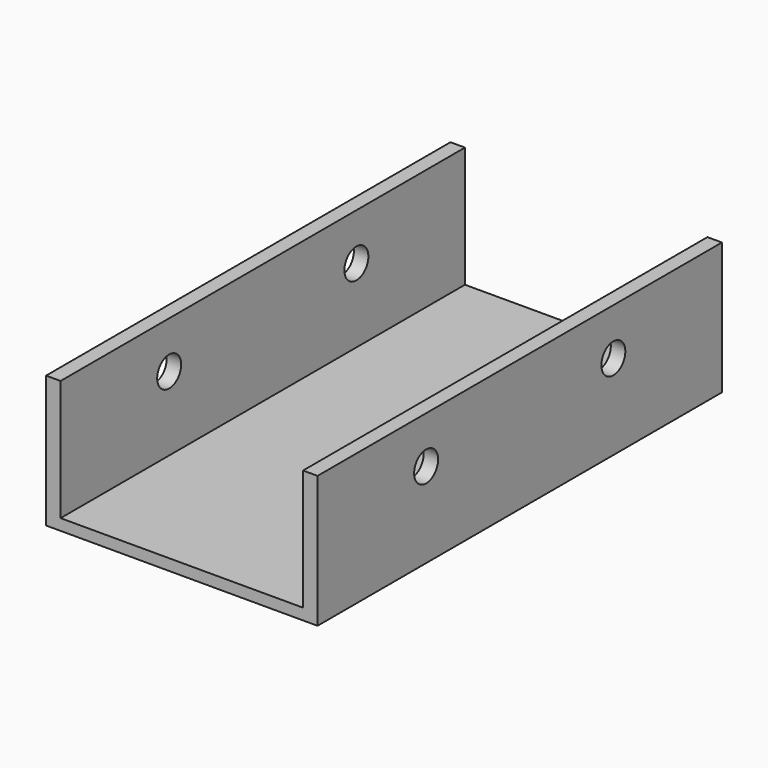
from build123d import *

# Parameters (mm, degrees)
PAD_DEPTH         = 27
SKETCH001_R       = 1.6
POCKET_DEPTH      = 14.501
POCKET_DEPTH_BACK = -14.501


with BuildPart() as part:
    # Sketch → Pad (new body, symmetric)
    with BuildSketch(Plane.XZ):
        Polygon((-14.5, 14.1), (-14.5, 0), (14.5, 0), (14.5, 14.1), (12.95, 14.1), (12.95, 1.2), (-12.95, 1.2), (-12.95, 14.1), align=None)
    extrude(amount=PAD_DEPTH, both=True)

    # Sketch001 → Pocket (cut, two sides)
    with BuildSketch(Plane.YZ) as pocket_sk:
        with Locations((-12.5, 9.1)):
            Circle(SKETCH001_R)
        with Locations((12.5, 9.1)):
            Circle(SKETCH001_R)
    extrude(amount=-POCKET_DEPTH, mode=Mode.SUBTRACT)
    extrude(pocket_sk.sketch, amount=-POCKET_DEPTH_BACK, mode=Mode.SUBTRACT)


solid = part.part
